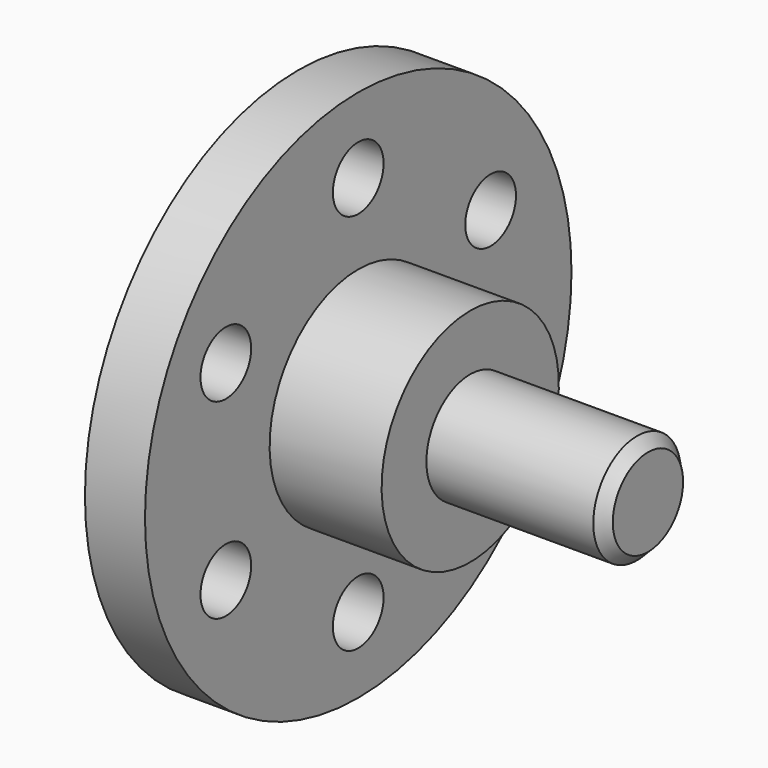
from build123d import *

# Parameters (mm, degrees)
F2_SIZE  = 2.54
F3_R     = 7.430416
F4_DEPTH = 25.4


with BuildPart() as f1:
    # F0 (on Front) → F1 (revolve)
    with BuildSketch(Plane.XZ):
        Polygon((0, 62.504839), (0, 0), (82.007878, 0), (82.007878, 12.843461), (40.337984, 12.843461), (40.337984, 25.972329), (14.080239, 25.972329), (14.080239, 62.504839), align=None)
    revolve(axis=Axis((41.003939, 0, 0), (1, 0, 0)))

    # F2
    f2_edges = [f1.edges().sort_by_distance(p)[0] for p in [
        (82.007878, 0, -12.843461),
    ]]
    chamfer(f2_edges, length=F2_SIZE)

    # F3 (on face) → F4 (cut)
    with BuildSketch(Plane.YZ.offset(14.080239)):
        with Locations((0, 44.809405)):
            Circle(F3_R)
        with Locations((-38.806083, 22.404702)):
            Circle(F3_R)
        with Locations((-38.806083, -22.404702)):
            Circle(F3_R)
        with Locations((0, -44.809405)):
            Circle(F3_R)
        with Locations((38.806083, -22.404702)):
            Circle(F3_R)
        with Locations((38.806083, 22.404702)):
            Circle(F3_R)
    extrude(amount=-F4_DEPTH, mode=Mode.SUBTRACT)


solid = f1.part
